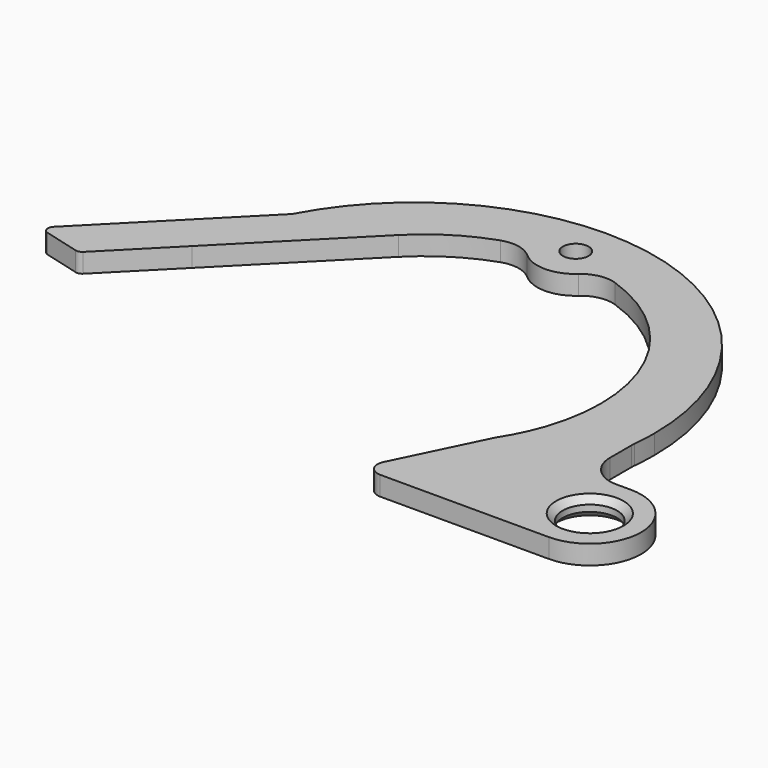
from build123d import *

# Parameters (mm, degrees)
F0_R     = 4.25
F1_DEPTH = 3
F2_R     = 5
F3_R     = 6
F4_R     = 1
F5_SIZE  = 1


with BuildPart() as f1:
    # F0 (on Top) → F1 (new body)
    with BuildSketch(Plane.XY):
        with BuildLine():
            Line((-62.1857971695, 22.9072221785), (-52.3882933556, 32.7997051499))
            ThreePointArc((-52.3882933556, 32.7997051499), (-50.9844964361, 40.1186300293), (-48.1611355423, 47.0154365688))
            Line((-48.1611355423, 47.0154365688), (-69.9716899396, 24.9934458586))
            Line((-69.9716899396, 24.9934458586), (-62.1857971695, 22.9072221785))
        make_face()
        with BuildLine():
            ThreePointArc((-48.1611355423, 47.0154365688), (-50.9844964361, 40.1186300293), (-52.3882933556, 32.7997051499))
            Line((-52.3882933556, 32.7997051499), (-34.5789852905, 50.7816605657))
            ThreePointArc((-34.5789852905, 50.7816605657), (-28.0931597891, 55.634884838), (-20.47471121, 58.3878758514))
            ThreePointArc((-20.47471121, 58.3878758514), (-20.102300057, 64.1509445203), (-15.0399766137, 66.9302487327))
            ThreePointArc((-15.0399766137, 66.9302487327), (-34.3636079514, 61.5681900471), (-48.1611355423, 47.0154365688))
        make_face()
        with BuildLine():
            ThreePointArc((-15.0399766137, 66.9302487327), (-20.102300057, 64.1509445203), (-20.47471121, 58.3878758514))
            ThreePointArc((-20.47471121, 58.3878758514), (-17.7708422565, 58.794319571), (-15.0399766285, 58.9302487327))
            ThreePointArc((-15.0399766285, 58.9302487327), (-12.3091109856, 58.7943195724), (-9.6052420174, 58.3878758514))
            ThreePointArc((-9.6052420174, 58.3878758514), (-9.1829975469, 59.628021329), (-9.0399766137, 60.9302487327))
            ThreePointArc((-9.0399766137, 60.9302487327), (-10.7973359266, 65.1728894198), (-15.0399766137, 66.9302487327))
        make_face()
        with BuildLine():
            ThreePointArc((-13.0399766137, 60.9302487327), (-13.6257630566, 59.5160351651), (-15.0399766285, 58.9302487327))
            ThreePointArc((-15.0399766285, 58.9302487327), (-16.4541901709, 62.3444623003), (-13.0399766137, 60.9302487327))
        make_face(mode=Mode.SUBTRACT)
        with BuildLine():
            ThreePointArc((-15.0399766285, 58.9302487327), (-17.7708422565, 58.794319571), (-20.47471121, 58.3878758514))
            ThreePointArc((-20.47471121, 58.3878758514), (-15.0399766137, 54.9302487327), (-9.6052420174, 58.3878758514))
            ThreePointArc((-9.6052420174, 58.3878758514), (-12.3091109856, 58.7943195724), (-15.0399766285, 58.9302487327))
        make_face()
        with BuildLine():
            ThreePointArc((1.4030809655, 2.8767422936), (1.5045728658, 0.9401614715), (3.2006690581, 0))
            Line((3.2006690581, 0), (8.2003000527, 0))
            ThreePointArc((8.2003000527, 0), (17.7947523333, 11.3158739167), (22.25, 25.4669616943))
            ThreePointArc((22.25, 25.4669616943), (22.40748073, 27.4458247627), (22.4600233863, 29.4302487327))
            ThreePointArc((22.4600233863, 29.4302487327), (11.4765276808, 55.9467530272), (-15.0399766137, 66.9302487327))
            ThreePointArc((-15.0399766137, 66.9302487327), (-10.7973359266, 65.1728894198), (-9.0399766137, 60.9302487327))
            ThreePointArc((-9.0399766137, 60.9302487327), (-9.1829975469, 59.628021329), (-9.6052420174, 58.3878758514))
            ThreePointArc((-9.6052420174, 58.3878758514), (6.2403570467, 48.8485551745), (12.4600233863, 31.4302487327))
            ThreePointArc((12.4600233863, 31.4302487327), (12.0822423248, 26.8876459708), (10.9592786697, 22.4698511575))
            ThreePointArc((10.9592786697, 22.4698511575), (9.6768596595, 19.375042196), (8.0276528973, 16.4591275743))
            Line((8.0276528973, 16.4591275743), (1.4030809655, 2.8767422936))
        make_face()
        with BuildLine():
            ThreePointArc((22.25, 25.4669616943), (17.7947523333, 11.3158739167), (8.2003000527, 0))
            Line((8.2003000527, 0), (29.5, 0))
            ThreePointArc((29.5, 0), (37.5, 8), (29.5, 16))
            Line((29.5, 16), (27.25, 16))
            ThreePointArc((27.25, 16), (23.7144660941, 17.4644660941), (22.25, 21))
            Line((22.25, 21), (22.25, 22.4049843981))
            Line((22.25, 22.4049843981), (22.25, 25.4669616943))
        make_face()
        with Locations((29.5, 8)):
            Circle(F0_R, mode=Mode.SUBTRACT)
    extrude(amount=F1_DEPTH)

    # F2
    f2_edges = [f1.edges().sort_by_distance(p)[0] for p in [
        (-20.474711, 58.387876, 1.5),
        (-9.605242, 58.387876, 1.5),
    ]]
    fillet(f2_edges, radius=F2_R)

    # F3
    f3_edges = [f1.edges().sort_by_distance(p)[0] for p in [
        (22.25, 25.466962, 1.5),
    ]]
    fillet(f3_edges, radius=F3_R)

    # F4
    f4_edges = [f1.edges().sort_by_distance(p)[0] for p in [
        (-69.97169, 24.993446, 1.5),
        (-62.185797, 22.907222, 1.5),
    ]]
    fillet(f4_edges, radius=F4_R)

    # F5
    f5_edges = [f1.edges().sort_by_distance(p)[0] for p in [
        (25.25, 8, 3),
        (25.25, 8, 0),
    ]]
    chamfer(f5_edges, length=F5_SIZE)


solid = f1.part
